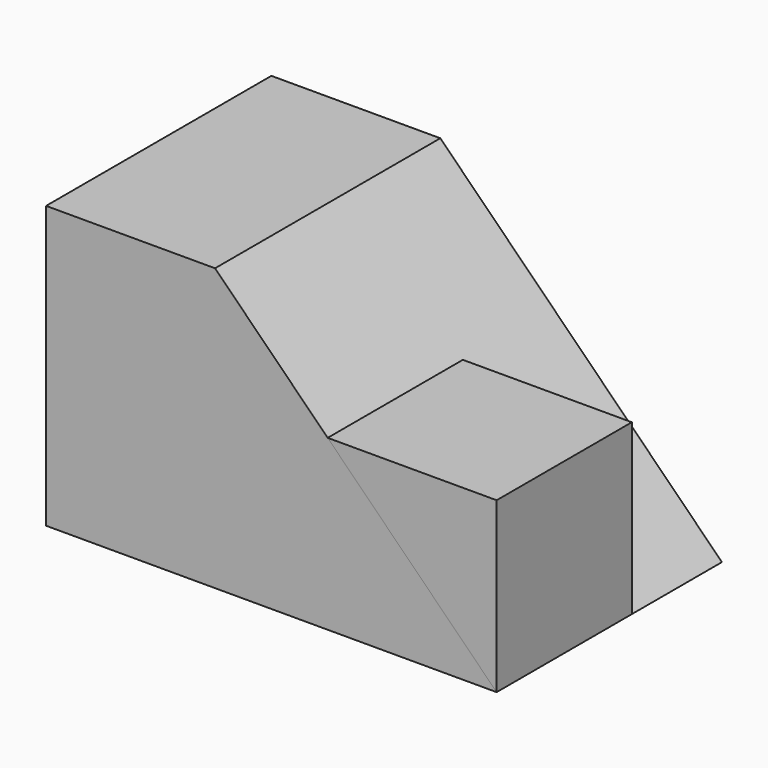
from build123d import *

# Parameters (mm, degrees)
F1_DEPTH = 31.75
F3_DEPTH = 19.05


with BuildPart() as f1:
    # F0 (on Front) → F1 (new body)
    with BuildSketch(Plane.XZ):
        Polygon((-59.117606, 31.75), (-59.117606, 0), (-8.317606, 0), (-40.067606, 31.75), align=None)
    extrude(amount=F1_DEPTH)


with BuildPart() as f3:
    # F2 (on face) → F3 (new body)
    with BuildSketch(Plane.XZ.offset(31.75)):
        Polygon((-8.317606, 19.05), (-27.367606, 19.05), (-8.317606, 0), align=None)
    extrude(amount=-F3_DEPTH)


solid = Compound([f1.part, f3.part])
